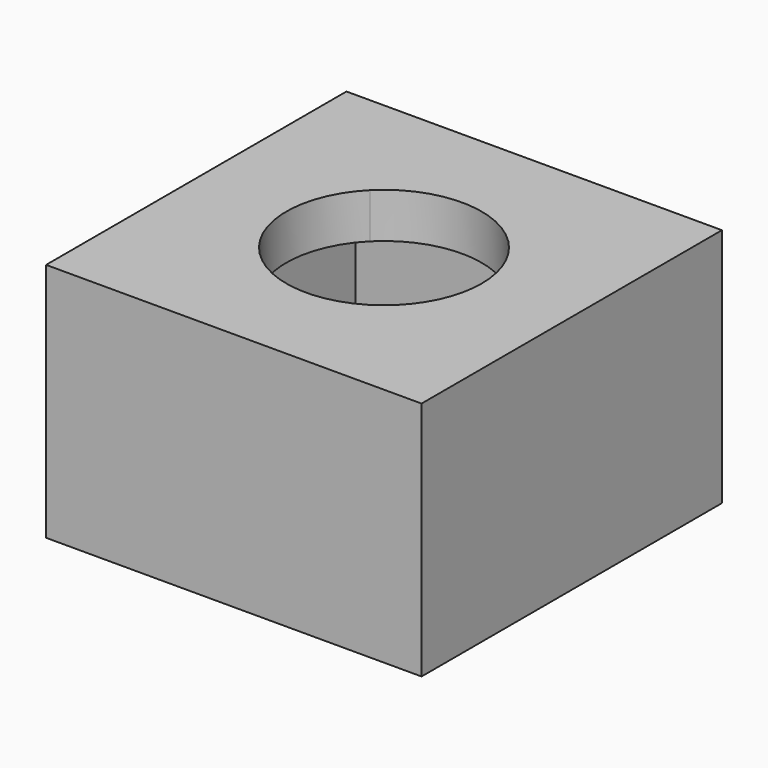
from build123d import *

# Parameters (mm, degrees)
F0_W     = 25
F0_H     = 25
F1_DEPTH = 16
F2_T     = -3
F4_DEPTH = 25


with BuildPart() as f1:
    # F0 (on Top) → F1 (new body)
    with BuildSketch(Plane.XY):
        with Locations((12.5, 12.5)):
            Rectangle(F0_W, F0_H)
    extrude(amount=F1_DEPTH)

    # F2
    f2_openings = [f1.faces().sort_by_distance(p)[0] for p in [
        (12.5, 12.5, 0),
    ]]
    offset(amount=F2_T, openings=f2_openings)

    # F3 (on face) → F4 (cut)
    with BuildSketch(Plane.XY.offset(16)):
        with BuildLine():
            Line((12.5, 12.5), (17.0961940777, 17.0961940777))
            ThreePointArc((17.0961940777, 17.0961940777), (12.5, 19), (7.9038059223, 17.0961940777))
            Line((7.9038059223, 17.0961940777), (12.5, 12.5))
        make_face()
        with BuildLine():
            ThreePointArc((19, 12.5), (18.5052169613, 14.9874423104), (17.0961940777, 17.0961940777))
            Line((17.0961940777, 17.0961940777), (12.5, 12.5))
            Line((12.5, 12.5), (17.0961940777, 7.9038059223))
            ThreePointArc((17.0961940777, 7.9038059223), (18.5052169613, 10.0125576896), (19, 12.5))
        make_face()
        with BuildLine():
            Line((17.0961940777, 7.9038059223), (12.5, 12.5))
            Line((12.5, 12.5), (7.9038059223, 7.9038059223))
            ThreePointArc((7.9038059223, 7.9038059223), (12.5, 6), (17.0961940777, 7.9038059223))
        make_face()
        with BuildLine():
            Line((7.9038059223, 7.9038059223), (12.5, 12.5))
            Line((12.5, 12.5), (7.9038059223, 17.0961940777))
            ThreePointArc((7.9038059223, 17.0961940777), (6, 12.5), (7.9038059223, 7.9038059223))
        make_face()
    extrude(amount=-F4_DEPTH, mode=Mode.SUBTRACT)


solid = f1.part
